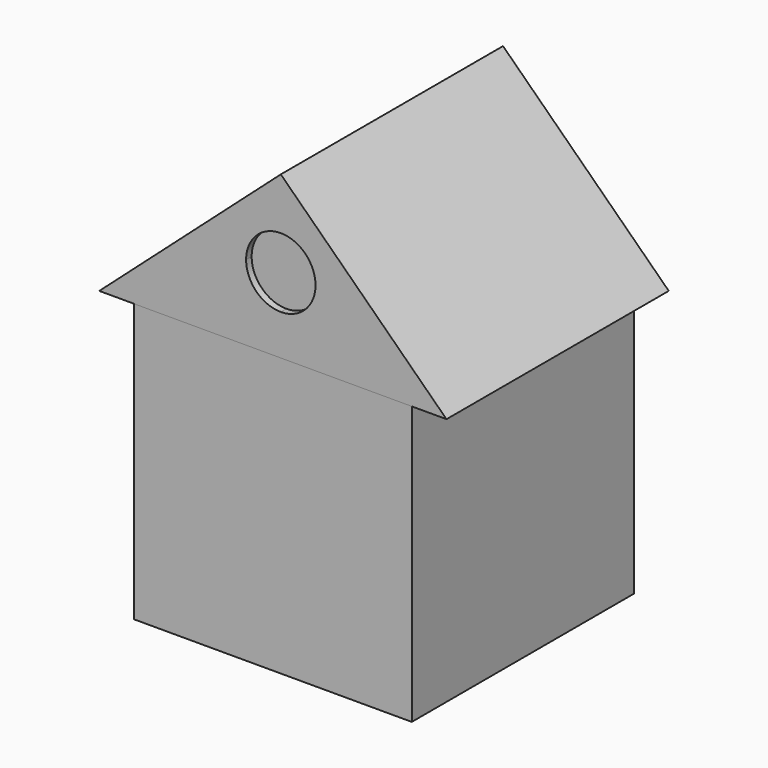
from build123d import *

# Parameters (mm, degrees)
F0_W     = 101.6
F0_H     = 101.6
F1_DEPTH = 101.6
F3_DEPTH = 101.6
F7_DEPTH = 2.54


with BuildPart() as f1:
    # F0 (on Top) → F1 (new body)
    with BuildSketch(Plane.XY):
        with Locations((-2.8933114175, 0)):
            Rectangle(F0_W, F0_H)
    extrude(amount=F1_DEPTH)


with BuildPart() as f3:
    # F2 (on face) → F3 (new body)
    with BuildSketch(Plane.XZ.offset(50.8)):
        Polygon((0, 186.119693834), (-66.3933114175, 127), (60.6066885825, 127), align=None)
    extrude(amount=-F3_DEPTH)


with BuildPart() as f3_1:
    # F4: moved
    add(f3.part.moved(Location((0, 0, -25.4))))

    # F6 (on face) → F7 (cut)
    with BuildSketch(Plane.XZ.offset(50.8)):
        with BuildLine():
            Line((0, 141.8131968484), (0, 129.1131968484))
            Line((0, 129.1131968484), (12.7, 129.1131968484))
            ThreePointArc((12.7, 129.1131968484), (8.9802561211, 138.0934529694), (0, 141.8131968484))
        make_face()
        with BuildLine():
            Line((-12.7, 129.1131968484), (0, 129.1131968484))
            Line((0, 129.1131968484), (0, 141.8131968484))
            ThreePointArc((0, 141.8131968484), (-8.9802561211, 138.0934529694), (-12.7, 129.1131968484))
        make_face()
        with BuildLine():
            Line((0, 116.4131968484), (0, 129.1131968484))
            Line((0, 129.1131968484), (-12.7, 129.1131968484))
            ThreePointArc((-12.7, 129.1131968484), (-8.9802561211, 120.1329407273), (0, 116.4131968484))
        make_face()
        with BuildLine():
            Line((12.7, 129.1131968484), (0, 129.1131968484))
            Line((0, 129.1131968484), (0, 116.4131968484))
            ThreePointArc((0, 116.4131968484), (8.9802561211, 120.1329407273), (12.7, 129.1131968484))
        make_face()
    extrude(amount=-F7_DEPTH, mode=Mode.SUBTRACT)


solid = Compound([f1.part, f3_1.part])
